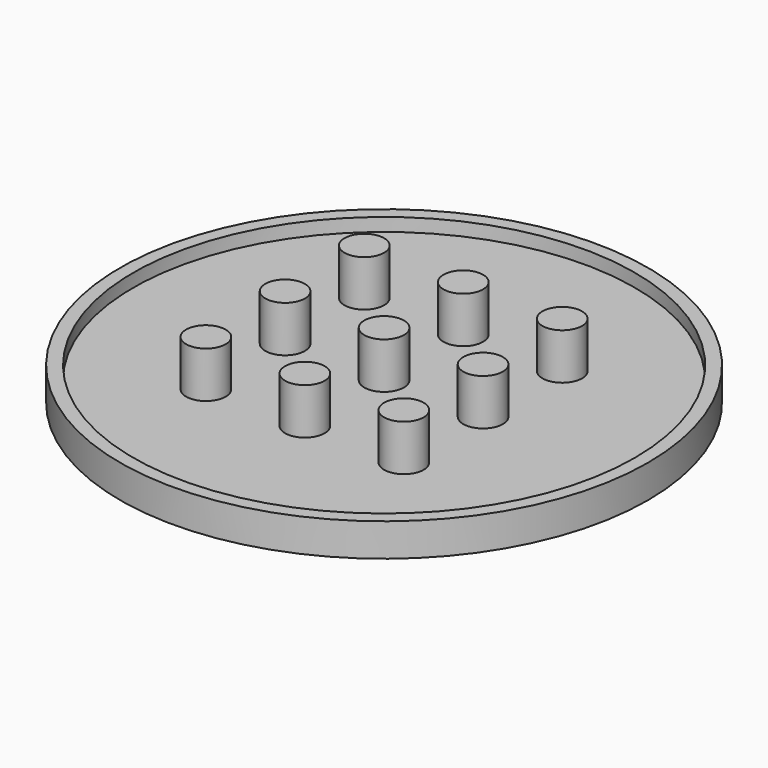
from build123d import *

# Parameters (mm, degrees)
F0_R     = 38
F0_R_2   = 3
F1_DEPTH = 3
F2_DEPTH = 10
F0_R_3   = 40
F3_DEPTH = 5


with BuildPart() as f1:
    # F0 (on Top) → F1 (new body)
    with BuildSketch(Plane.XY):
        Circle(F0_R)
        with Locations((-15, -15)):
            Circle(F0_R_2, mode=Mode.SUBTRACT)
        with Locations((0, -15)):
            Circle(F0_R_2, mode=Mode.SUBTRACT)
        with Locations((15, -15)):
            Circle(F0_R_2, mode=Mode.SUBTRACT)
        with Locations((-15, 0)):
            Circle(F0_R_2, mode=Mode.SUBTRACT)
        with Locations((-15, 15)):
            Circle(F0_R_2, mode=Mode.SUBTRACT)
        Circle(F0_R_2, mode=Mode.SUBTRACT)
        with Locations((15, 0)):
            Circle(F0_R_2, mode=Mode.SUBTRACT)
        with Locations((0, 15)):
            Circle(F0_R_2, mode=Mode.SUBTRACT)
        with Locations((15, 15)):
            Circle(F0_R_2, mode=Mode.SUBTRACT)
    extrude(amount=F1_DEPTH)

    # F0 (on Top) → F2 (join)
    with BuildSketch(Plane.XY):
        with Locations((0, 15)):
            Circle(F0_R_2)
        with Locations((-15, 0)):
            Circle(F0_R_2)
        with Locations((0, -15)):
            Circle(F0_R_2)
        with Locations((15, 0)):
            Circle(F0_R_2)
        with Locations((-15, 15)):
            Circle(F0_R_2)
        with Locations((15, 15)):
            Circle(F0_R_2)
        with Locations((15, -15)):
            Circle(F0_R_2)
        Circle(F0_R_2)
        with Locations((-15, -15)):
            Circle(F0_R_2)
    extrude(amount=F2_DEPTH)

    # F0 (on Top) → F3 (join)
    with BuildSketch(Plane.XY):
        Circle(F0_R_3)
        Circle(F0_R, mode=Mode.SUBTRACT)
    extrude(amount=F3_DEPTH)


solid = f1.part
